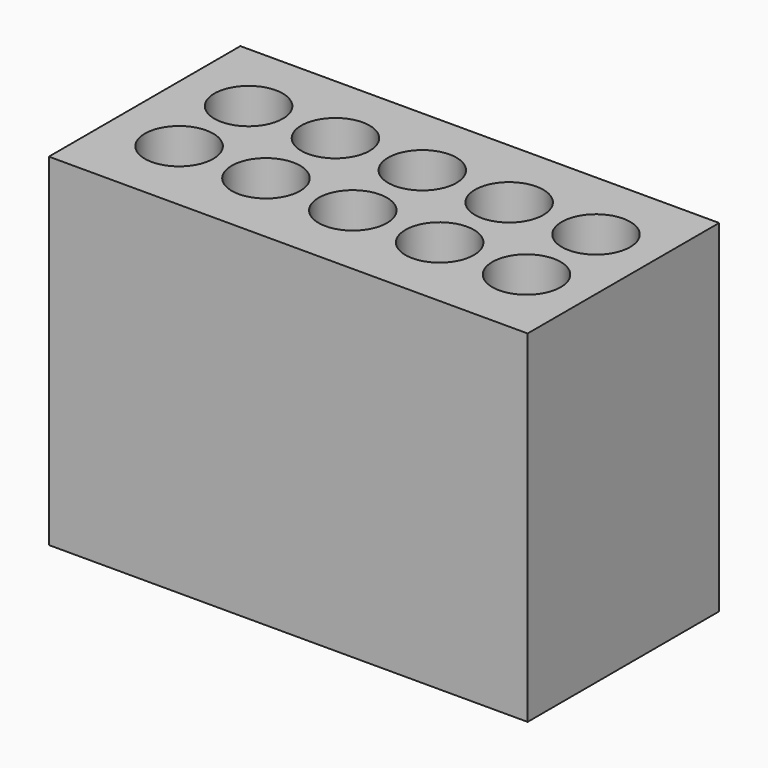
from build123d import *

# Parameters (mm, degrees)
BOX_W        = 14
BOX_H        = 7
BOX_DEPTH    = 10
SKETCH_R     = 1
POCKET_DEPTH = 10


with BuildPart() as part:
    # Box → Box (new body)
    with BuildSketch(Plane.XY):
        with Locations((7, 3.5)):
            Rectangle(BOX_W, BOX_H)
    extrude(amount=BOX_DEPTH)

    # Sketch → Pocket (cut)
    with BuildSketch(Plane.XY.offset(10)):
        with Locations((2, 2.26)):
            Circle(SKETCH_R)
        with Locations((4.54, 2.26)):
            Circle(SKETCH_R)
        with Locations((7.08, 2.26)):
            Circle(SKETCH_R)
        with Locations((9.62, 2.26)):
            Circle(SKETCH_R)
        with Locations((12.16, 2.26)):
            Circle(SKETCH_R)
        with Locations((2, 4.8)):
            Circle(SKETCH_R)
        with Locations((4.54, 4.8)):
            Circle(SKETCH_R)
        with Locations((7.08, 4.8)):
            Circle(SKETCH_R)
        with Locations((9.62, 4.8)):
            Circle(SKETCH_R)
        with Locations((12.16, 4.8)):
            Circle(SKETCH_R)
    extrude(amount=-POCKET_DEPTH, mode=Mode.SUBTRACT)


solid = part.part
